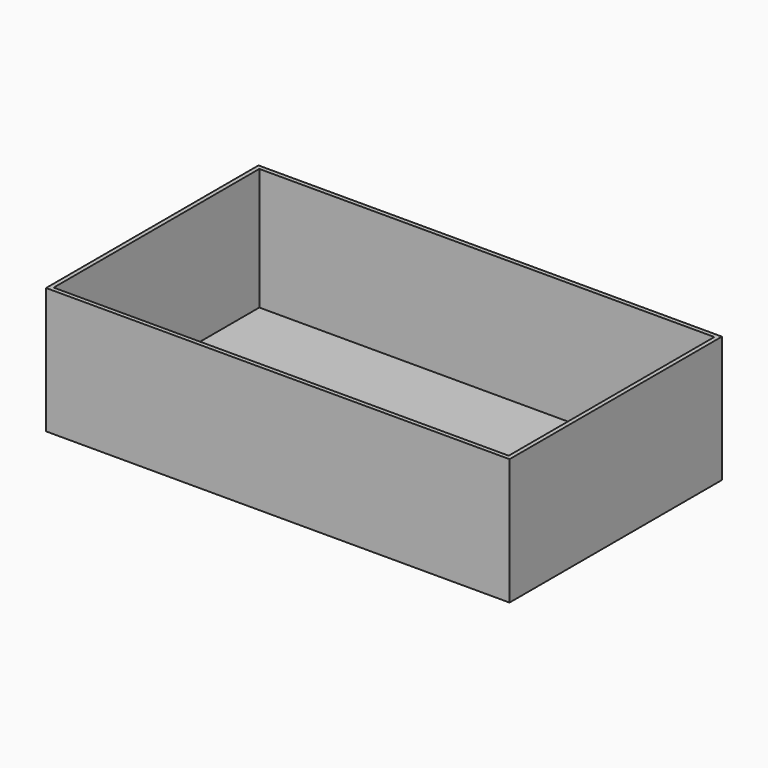
from build123d import *

# Parameters (mm, degrees)
F0_W     = 132.6081287116
F0_H     = 90.7132923603
F1_DEPTH = 76.2
F3_W     = 279.7318845987
F3_H     = 160.2330692112
F4_DEPTH = 76.2
F5_T     = -2.54


with BuildPart() as f1:
    # F0 (on Right) → F1 (new body)
    with BuildSketch(Plane.YZ):
        with Locations((-39.4802326337, -12.3488530517)):
            Rectangle(F0_W, F0_H)
    extrude(amount=F1_DEPTH)


with BuildPart() as f4:
    # F3 (on Top) → F4 (new body)
    with BuildSketch(Plane.XY):
        with Locations((-21.0741087794, 28.8107972592)):
            Rectangle(F3_W, F3_H)
    extrude(amount=F4_DEPTH)

    # F5
    f5_openings = [f4.faces().sort_by_distance(p)[0] for p in [
        (-21.074109, 28.810797, 76.2),
    ]]
    offset(amount=F5_T, openings=f5_openings)


solid = f4.part
